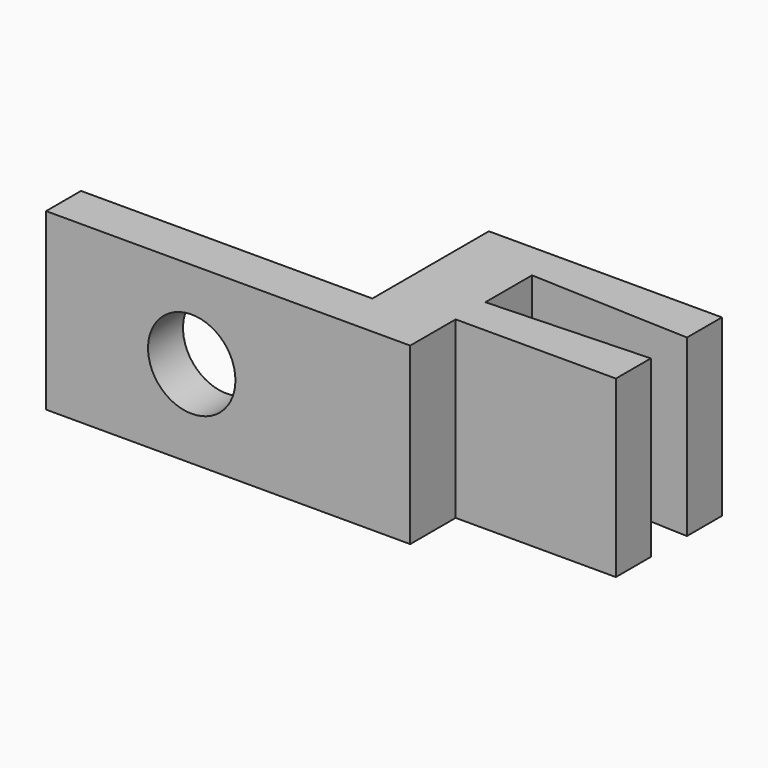
from build123d import *

# Parameters (mm, degrees)
PAD_DEPTH   = 12
SKETCH001_R = 3
HOLE_DEPTH  = 25


with BuildPart() as part:
    # Sketch → Pad (new body)
    with BuildSketch(Plane.XY):
        Polygon((-20, -11.805553), (5, -11.805553), (5, -7.905553), (16, -7.905553), (16, -4.905553), (5, -5.355553), (5, -1.355553), (16, -1.805553), (16, 1.194447), (5, 1.194447), (0, 1.194447), (0, -8.805553), (-20, -8.805553), align=None)
    extrude(amount=PAD_DEPTH)

    # Sketch001 (on Face5 of Pad) → Hole (cut)
    with BuildSketch(Plane.XZ.offset(11.805553)):
        with Locations((-10, 6)):
            Circle(SKETCH001_R)
    extrude(amount=-HOLE_DEPTH, mode=Mode.SUBTRACT)


solid = part.part
